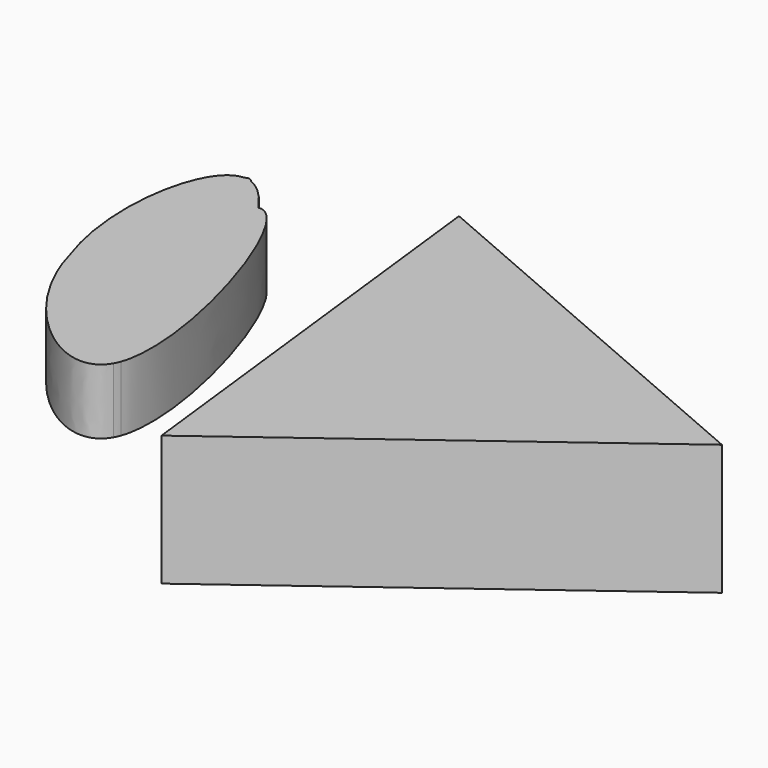
from build123d import *

# Parameters (mm, degrees)
F1_DEPTH = 25.4
F2_DEPTH = 25.4


with BuildPart() as f1:
    # F0 (on Top) → F1 (new body)
    with BuildSketch(Plane.XY):
        Polygon((-38.1237527186, -90.3830688664), (98.8726872316, 11.4427240084), (-57.8092561336, 79.1722247959), align=None)
    extrude(amount=-F1_DEPTH)

    # F2 (add): a face of the model
    f2_faces = [f1.faces().sort_by_distance(p)[0] for p in [
        (0.9798927931, 0.0772933126, -25.4),
    ]]
    extrude(f2_faces, amount=F2_DEPTH)


with BuildPart() as f1b:
    # F0 (on Top) → F1, piece 2 (new body)
    with BuildSketch(Plane.XY):
        with BuildLine():
            add(Edge.make_bspline(
                [(-134.3896687031, -14.7044314072), (-142.7311083397, 16.4550494294), (-131.6720253421, 53.4780620192), (-124.6619394967, 58.1101097866)],
                knots=[0.6200788677, 0.6200788677, 0.6200788677, 0.6200788677, 0.802576493, 0.802576493, 0.802576493, 0.802576493], degree=3))
            add(Edge.make_bspline(
                [(-79.2800709544, -62.338698645), (-87.958929987, -77.0308760174), (-121.9610045481, -49.7578284038), (-134.3896687031, -14.7044314072)],
                knots=[0.6992366772, 0.6992366772, 0.6992366772, 0.6992366772, 1, 1, 1, 1], degree=3))
            add(Edge.make_bspline(
                [(-78.2008010068, -59.9350369728), (-78.5139244232, -60.8143048025), (-78.8729099527, -61.6177568097), (-79.2800709605, -62.3386986554)],
                knots=[0.3989413153, 0.3989413153, 0.3989413153, 0.3989413153, 0.408006475, 0.408006475, 0.408006475, 0.408006475], degree=3))
            add(Edge.make_bspline(
                [(-108.9341402393, 45.3013569048), (-90.7063036706, 18.8782057756), (-71.7380579244, -40.8813965528), (-78.2008010068, -59.9350369728)],
                knots=[0.3761828281, 0.3761828281, 0.3761828281, 0.3761828281, 0.6847703081, 0.6847703081, 0.6847703081, 0.6847703081], degree=3))
            add(Edge.make_bspline(
                [(-118.667088449, 12.4472836033), (-118.2991094276, 12.9315110116), (-116.0400518155, 43.4534065078), (-108.9341402393, 45.3013569048)],
                knots=[0, 0, 0, 0, 0.1454516388, 0.1454516388, 0.1454516388, 0.1454516388], degree=3))
            add(Edge.make_bspline(
                [(-121.6075792909, 57.5565546751), (-117.0175792235, 50.9624056406), (-119.0897455595, 11.8911047308), (-118.667088449, 12.4472836033)],
                knots=[0.8329356681, 0.8329356681, 0.8329356681, 0.8329356681, 1, 1, 1, 1], degree=3))
            add(Edge.make_bspline(
                [(-124.6619394961, 58.1101097845), (-123.675580112, 58.1252412608), (-122.656053142, 57.9460527348), (-121.6075792909, 57.5565546751)],
                knots=[0.2820915799, 0.2820915799, 0.2820915799, 0.2820915799, 0.3018757781, 0.3018757781, 0.3018757781, 0.3018757781], degree=3))
        make_face()
        with BuildLine():
            add(Edge.make_bspline(
                [(-79.2800709544, -62.338698645), (-87.958929987, -77.0308760174), (-121.9610045481, -49.7578284038), (-134.3896687031, -14.7044314072)],
                knots=[0.6992366772, 0.6992366772, 0.6992366772, 0.6992366772, 1, 1, 1, 1], degree=3))
            add(Edge.make_bspline(
                [(-79.2800709605, -62.3386986554), (-88.8052874953, -79.2045749484), (-124.6964518245, -50.9134814909), (-134.3896687031, -14.7044314072)],
                knots=[0.408006475, 0.408006475, 0.408006475, 0.408006475, 0.6200788677, 0.6200788677, 0.6200788677, 0.6200788677], degree=3))
        make_face()
        with BuildLine():
            add(Edge.make_bspline(
                [(-134.3896687031, -14.7044314072), (-146.0467466828, 18.1728092317), (-138.7258744457, 57.8943587092), (-124.6619394961, 58.1101097845)],
                knots=[0, 0, 0, 0, 0.2820915799, 0.2820915799, 0.2820915799, 0.2820915799], degree=3))
            add(Edge.make_bspline(
                [(-134.3896687031, -14.7044314072), (-142.7311083397, 16.4550494294), (-131.6720253421, 53.4780620192), (-124.6619394967, 58.1101097866)],
                knots=[0.6200788677, 0.6200788677, 0.6200788677, 0.6200788677, 0.802576493, 0.802576493, 0.802576493, 0.802576493], degree=3))
        make_face()
        with BuildLine():
            add(Edge.make_bspline(
                [(-124.6619394967, 58.1101097866), (-123.4957850177, 58.8806685743), (-122.4416808244, 58.7548530936), (-121.6075792909, 57.5565546751)],
                knots=[0.802576493, 0.802576493, 0.802576493, 0.802576493, 0.8329356681, 0.8329356681, 0.8329356681, 0.8329356681], degree=3))
            add(Edge.make_bspline(
                [(-124.6619394961, 58.1101097845), (-123.675580112, 58.1252412608), (-122.656053142, 57.9460527348), (-121.6075792909, 57.5565546751)],
                knots=[0.2820915799, 0.2820915799, 0.2820915799, 0.2820915799, 0.3018757781, 0.3018757781, 0.3018757781, 0.3018757781], degree=3))
        make_face()
        with BuildLine():
            add(Edge.make_bspline(
                [(-78.2008010068, -59.9350369728), (-78.5139244232, -60.8143048025), (-78.8729099527, -61.6177568097), (-79.2800709605, -62.3386986554)],
                knots=[0.3989413153, 0.3989413153, 0.3989413153, 0.3989413153, 0.408006475, 0.408006475, 0.408006475, 0.408006475], degree=3))
            add(Edge.make_bspline(
                [(-78.2008010068, -59.9350369728), (-78.5037699646, -60.828258552), (-78.8626278416, -61.6320218533), (-79.2800709544, -62.338698645)],
                knots=[0.6847703081, 0.6847703081, 0.6847703081, 0.6847703081, 0.6992366772, 0.6992366772, 0.6992366772, 0.6992366772], degree=3))
        make_face()
        with BuildLine():
            add(Edge.make_bspline(
                [(-121.6075792909, 57.5565546751), (-117.6696386166, 56.0936471832), (-113.3233551368, 51.6639819008), (-108.9341402393, 45.3013569048)],
                knots=[0.3018757781, 0.3018757781, 0.3018757781, 0.3018757781, 0.3761828281, 0.3761828281, 0.3761828281, 0.3761828281], degree=3))
            add(Edge.make_bspline(
                [(-121.6075792909, 57.5565546751), (-117.0175792235, 50.9624056406), (-119.0897455595, 11.8911047308), (-118.667088449, 12.4472836033)],
                knots=[0.8329356681, 0.8329356681, 0.8329356681, 0.8329356681, 1, 1, 1, 1], degree=3))
            add(Edge.make_bspline(
                [(-118.667088449, 12.4472836033), (-118.2991094276, 12.9315110116), (-116.0400518155, 43.4534065078), (-108.9341402393, 45.3013569048)],
                knots=[0, 0, 0, 0, 0.1454516388, 0.1454516388, 0.1454516388, 0.1454516388], degree=3))
        make_face()
        with BuildLine():
            add(Edge.make_bspline(
                [(-108.9341402393, 45.3013569048), (-90.7063036706, 18.8782057756), (-71.7380579244, -40.8813965528), (-78.2008010068, -59.9350369728)],
                knots=[0.3761828281, 0.3761828281, 0.3761828281, 0.3761828281, 0.6847703081, 0.6847703081, 0.6847703081, 0.6847703081], degree=3))
            add(Edge.make_bspline(
                [(-108.9341402393, 45.3013569048), (-96.5501255883, 48.5219211555), (-69.4449096507, -35.3480109482), (-78.2008010068, -59.9350369728)],
                knots=[0.1454516388, 0.1454516388, 0.1454516388, 0.1454516388, 0.3989413153, 0.3989413153, 0.3989413153, 0.3989413153], degree=3))
        make_face()
    extrude(amount=-F1_DEPTH)


solid = Compound([f1.part, f1b.part])
